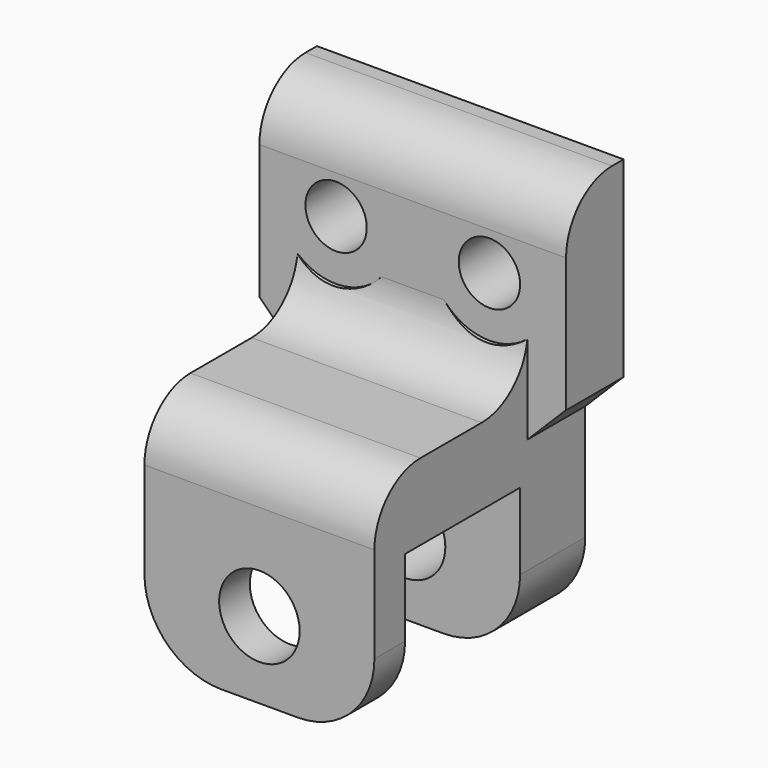
from build123d import *

# Parameters (mm, degrees)
CYLINDER730_R          = 3.1
CYLINDER730_DEPTH      = 2
CYLINDER730_ROLL_ANGLE = 90
CYLINDER726_R          = 2.1
CYLINDER726_DEPTH      = 15
CYLINDER726_ROLL_ANGLE = 90
CYLINDER728_R          = 1.6
CYLINDER728_DEPTH      = 15
CYLINDER728_ROLL_ANGLE = 90
CYLINDER727_R          = 1.6
CYLINDER727_DEPTH      = 15
CYLINDER727_ROLL_ANGLE = 90
CYLINDER729_R          = 3.1
CYLINDER729_DEPTH      = 2
CYLINDER729_ROLL_ANGLE = 90
BOX483_W               = 12
BOX483_H               = 7.5
BOX483_DEPTH           = 8
BOX482_W               = 12
BOX482_H               = 13.75
BOX482_DEPTH           = 12
BOX484_W               = 16
BOX484_H               = 3.75
BOX484_DEPTH           = 10
FILLET334_R            = 3
FILLET335_R            = 4
CHAMFER081_SIZE        = 1.99


with BuildPart() as cylinder837:
    # Cylinder730 → Cylinder730 (new body)
    with BuildSketch(Plane.XY):
        Circle(CYLINDER730_R)
    extrude(amount=CYLINDER730_DEPTH)


with BuildPart() as cylinder837_1:
    # Cylinder730 roll: moved
    add(cylinder837.part.rotate(Axis((0, 0, 0), (1, 0, 0)), CYLINDER730_ROLL_ANGLE))


with BuildPart() as cylinder837_2:
    # Cylinder730 placement: moved
    add(cylinder837_1.part.moved(Location((399.5, 49.75, -15))))


with BuildPart() as cylinder833:
    # Cylinder726 → Cylinder726 (new body)
    with BuildSketch(Plane.XY):
        Circle(CYLINDER726_R)
    extrude(amount=CYLINDER726_DEPTH)


with BuildPart() as cylinder833_1:
    # Cylinder726 roll: moved
    add(cylinder833.part.rotate(Axis((0, 0, 0), (1, 0, 0)), CYLINDER726_ROLL_ANGLE))


with BuildPart() as cylinder833_2:
    # Cylinder726 placement: moved
    add(cylinder833_1.part.moved(Location((395.5, 54, -28))))


with BuildPart() as cylinder835:
    # Cylinder728 → Cylinder728 (new body)
    with BuildSketch(Plane.XY):
        Circle(CYLINDER728_R)
    extrude(amount=CYLINDER728_DEPTH)


with BuildPart() as cylinder835_1:
    # Cylinder728 roll: moved
    add(cylinder835.part.rotate(Axis((0, 0, 0), (1, 0, 0)), CYLINDER728_ROLL_ANGLE))


with BuildPart() as cylinder835_2:
    # Cylinder728 placement: moved
    add(cylinder835_1.part.moved(Location((399.5, 54, -15))))


with BuildPart() as cylinder834:
    # Cylinder727 → Cylinder727 (new body)
    with BuildSketch(Plane.XY):
        Circle(CYLINDER727_R)
    extrude(amount=CYLINDER727_DEPTH)


with BuildPart() as cylinder834_1:
    # Cylinder727 roll: moved
    add(cylinder834.part.rotate(Axis((0, 0, 0), (1, 0, 0)), CYLINDER727_ROLL_ANGLE))


with BuildPart() as cylinder834_2:
    # Cylinder727 placement: moved
    add(cylinder834_1.part.moved(Location((391.5, 54, -15))))


with BuildPart() as fusion476:
    # Cylinder729 → Cylinder729 (new body)
    with BuildSketch(Plane.XY):
        Circle(CYLINDER729_R)
    extrude(amount=CYLINDER729_DEPTH)


with BuildPart() as fusion476_1:
    # Cylinder729 roll: moved
    add(fusion476.part.rotate(Axis((0, 0, 0), (1, 0, 0)), CYLINDER729_ROLL_ANGLE))


with BuildPart() as fusion476_2:
    # Cylinder729 placement: moved
    add(fusion476_1.part.moved(Location((391.5, 49.75, -15))))

    # Fusion476: union Cylinder837, Cylinder833, Cylinder835, Cylinder834
    add(cylinder837_2.part)
    add(cylinder833_2.part)
    add(cylinder835_2.part)
    add(cylinder834_2.part)


with BuildPart() as cube685:
    # Box483 → Box483 (new body)
    with BuildSketch(Plane(origin=(389.5, 41.75, -32), x_dir=(1, 0, 0), z_dir=(0, 0, 1))):
        with Locations((6, 3.75)):
            Rectangle(BOX483_W, BOX483_H)
    extrude(amount=BOX483_DEPTH)


with BuildPart() as cut873:
    # Box482 → Box482 (new body)
    with BuildSketch(Plane(origin=(389.5, 39.75, -32), x_dir=(1, 0, 0), z_dir=(0, 0, 1))):
        with Locations((6, 6.875)):
            Rectangle(BOX482_W, BOX482_H)
    extrude(amount=BOX482_DEPTH)

    # Cut594: cut Cube685
    add(cube685.part, mode=Mode.SUBTRACT)


with BuildPart() as obj1:
    # Box484 → Box484 (new body)
    with BuildSketch(Plane(origin=(387.5, 49.75, -20), x_dir=(1, 0, 0), z_dir=(0, 0, 1))):
        with Locations((8, 1.875)):
            Rectangle(BOX484_W, BOX484_H)
    extrude(amount=BOX484_DEPTH)

    # Fusion475: union Cut873
    add(cut873.part)

    # Fillet334
    fillet334_edges = [obj1.edges().sort_by_distance(p)[0] for p in [
        (395.5, 49.75, -20),
        (395.5, 49.75, -10),
        (395.5, 39.75, -20),
    ]]
    fillet(fillet334_edges, radius=FILLET334_R)

    # Fillet335
    fillet335_edges = [obj1.edges().sort_by_distance(p)[0] for p in [
        (389.5, 40.75, -32),
        (389.5, 51.375, -32),
        (401.5, 40.75, -32),
        (401.5, 51.375, -32),
    ]]
    fillet(fillet335_edges, radius=FILLET335_R)

    # Chamfer081
    chamfer081_edges = [obj1.edges().sort_by_distance(p)[0] for p in [
        (401.5, 51.625, -20),
        (389.5, 51.625, -20),
    ]]
    chamfer(chamfer081_edges, length=CHAMFER081_SIZE)

    # Cut593: cut Fusion476
    add(fusion476_2.part, mode=Mode.SUBTRACT)


with BuildPart() as obj1_1:
    # Cut593 placement: moved
    add(obj1.part.moved(Location((-350, 0, 2))))


solid = obj1_1.part
